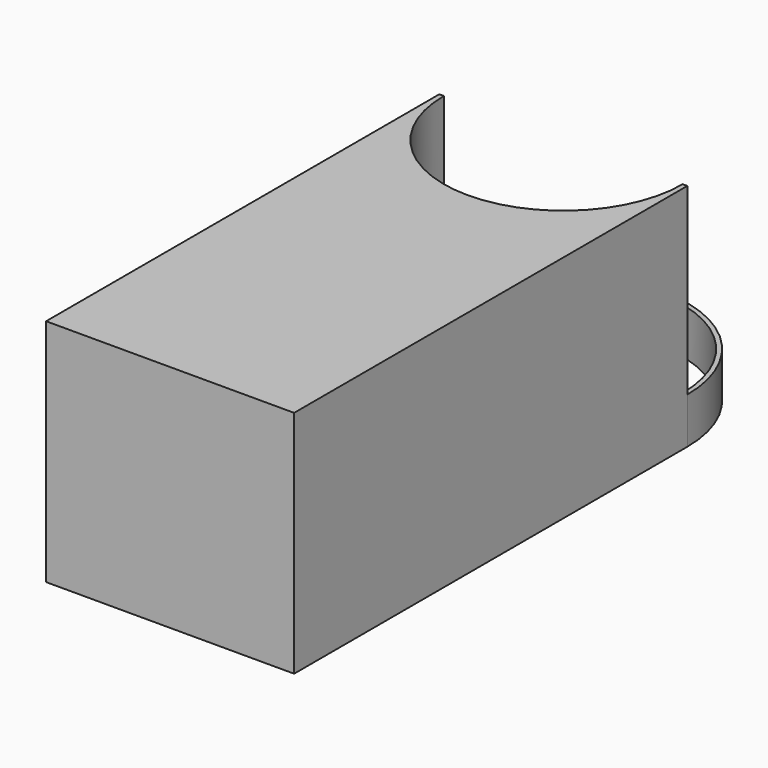
from build123d import *

# Parameters (mm, degrees)
F1_DEPTH = 25
F2_DEPTH = 5


with BuildPart() as f1:
    # F0 (on Top) → F1 (new body)
    with BuildSketch(Plane.XY):
        with BuildLine():
            ThreePointArc((0, -13.5), (9.545942, -9.545942), (13.5, 0))
            Line((13.5, 0), (13, 0))
            ThreePointArc((13, 0), (0, -13), (-13, 0))
            Line((-13, 0), (-13.5, 0))
            ThreePointArc((-13.5, 0), (-9.545942, -9.545942), (0, -13.5))
        make_face()
        with BuildLine():
            Line((13.5, -53.5), (13.5, 0))
            ThreePointArc((13.5, 0), (9.545942, -9.545942), (0, -13.5))
            Line((0, -13.5), (0, -53.5))
            Line((0, -53.5), (13.5, -53.5))
        make_face()
        with BuildLine():
            ThreePointArc((0, -13.5), (-9.545942, -9.545942), (-13.5, 0))
            Line((-13.5, 0), (-13.5, -53.5))
            Line((-13.5, -53.5), (0, -53.5))
            Line((0, -53.5), (0, -13.5))
        make_face()
    extrude(amount=F1_DEPTH)

    # F0 (on Top) → F2 (join)
    with BuildSketch(Plane.XY):
        with BuildLine():
            Line((13, 0), (13.5, 0))
            ThreePointArc((13.5, 0), (0, 13.5), (-13.5, 0))
            Line((-13.5, 0), (-13, 0))
            ThreePointArc((-13, 0), (0, 13), (13, 0))
        make_face()
    extrude(amount=F2_DEPTH)


solid = f1.part
